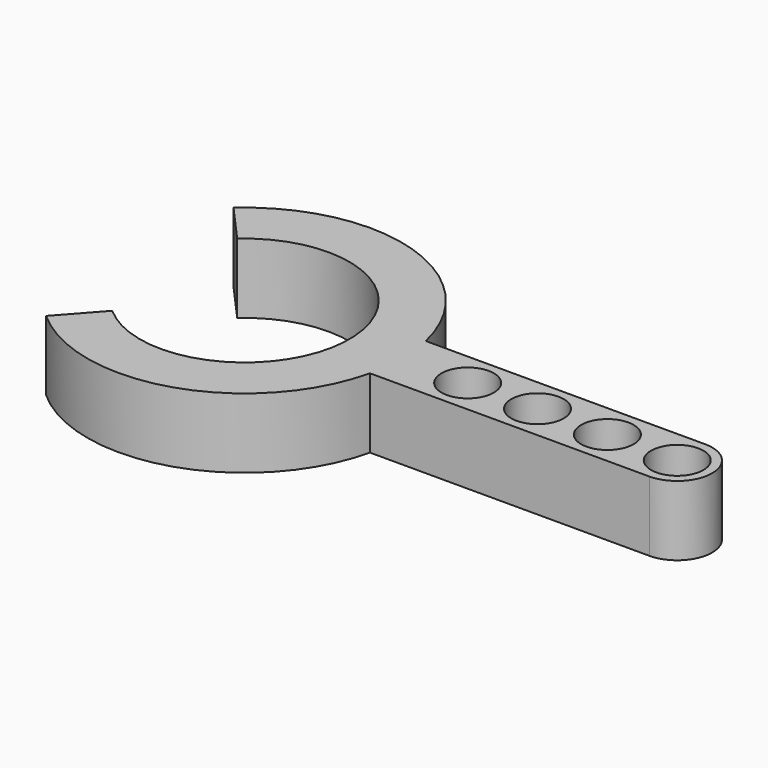
from build123d import *

# Parameters (mm, degrees)
F1_DEPTH = 6.35
F2_R     = 2.38125
F3_DEPTH = 6.35


with BuildPart() as f1:
    # F0 (on Top) → F1 (new body)
    with BuildSketch(Plane.XY):
        with BuildLine():
            Line((-9.525, 10.649274), (-6.35, 7.099516))
            ThreePointArc((-6.35, 7.099516), (9.525, 0), (-6.35, -7.099516))
            Line((-6.35, -7.099516), (-9.525, -10.649274))
            ThreePointArc((-9.525, -10.649274), (14.2875, 0), (-9.525, 10.649274))
        make_face()
    extrude(amount=F1_DEPTH)

    # F2 (on Top) → F3 (join, through all)
    with BuildSketch(Plane.XY):
        with BuildLine():
            Line((39.330256, 3.175), (13.930256, 3.175))
            ThreePointArc((13.930256, 3.175), (14.2875, 0), (13.930256, -3.175))
            Line((13.930256, -3.175), (39.330256, -3.175))
            ThreePointArc((39.330256, -3.175), (42.505256, 0), (39.330256, 3.175))
        make_face()
        with Locations((20.280256, 0)):
            Circle(F2_R, mode=Mode.SUBTRACT)
        with Locations((26.630256, 0)):
            Circle(F2_R, mode=Mode.SUBTRACT)
        with Locations((32.980256, 0)):
            Circle(F2_R, mode=Mode.SUBTRACT)
        with Locations((39.330256, 0)):
            Circle(F2_R, mode=Mode.SUBTRACT)
    extrude(amount=F3_DEPTH)


solid = f1.part
